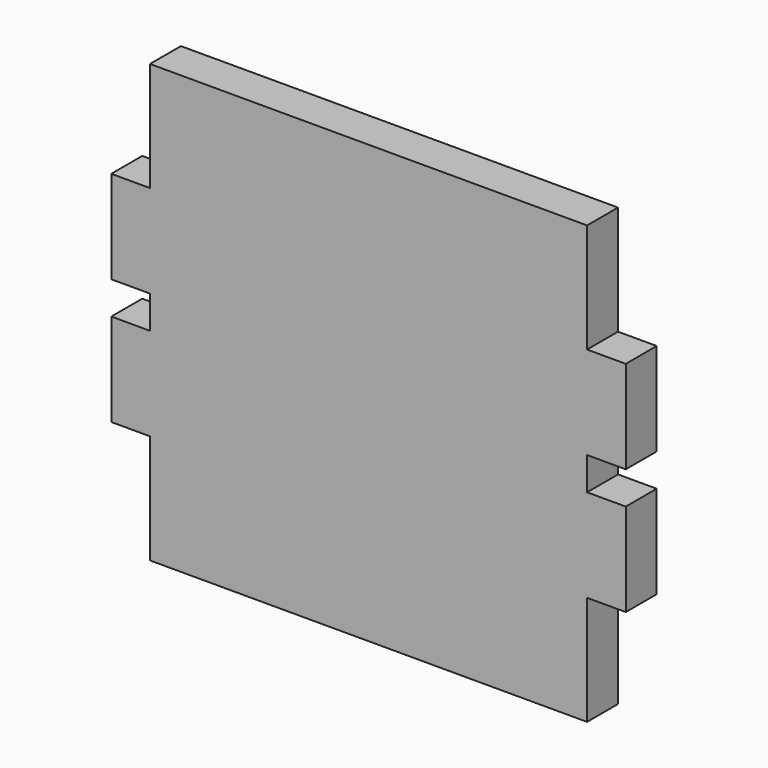
from build123d import *

# Parameters (mm, degrees)
F1_DEPTH = 2.2479


with BuildPart() as f1:
    # F0 (on Front) → F1 (new body, symmetric)
    with BuildSketch(Plane.XZ):
        Polygon((-25.4, -25.4), (25.4, -25.4), (25.4, -12.7), (29.8958, -12.7), (29.8958, -1.905), (25.4, -1.905), (25.4, 1.905), (29.8958, 1.905), (29.8958, 12.7), (25.4, 12.7), (25.4, 25.4), (-25.4, 25.4), (-25.4, 12.7), (-29.8958, 12.7), (-29.8958, 1.905), (-25.4, 1.905), (-25.4, -1.905), (-29.8958, -1.905), (-29.8958, -12.7), (-25.4, -12.7), align=None)
    extrude(amount=F1_DEPTH, both=True)


solid = f1.part
